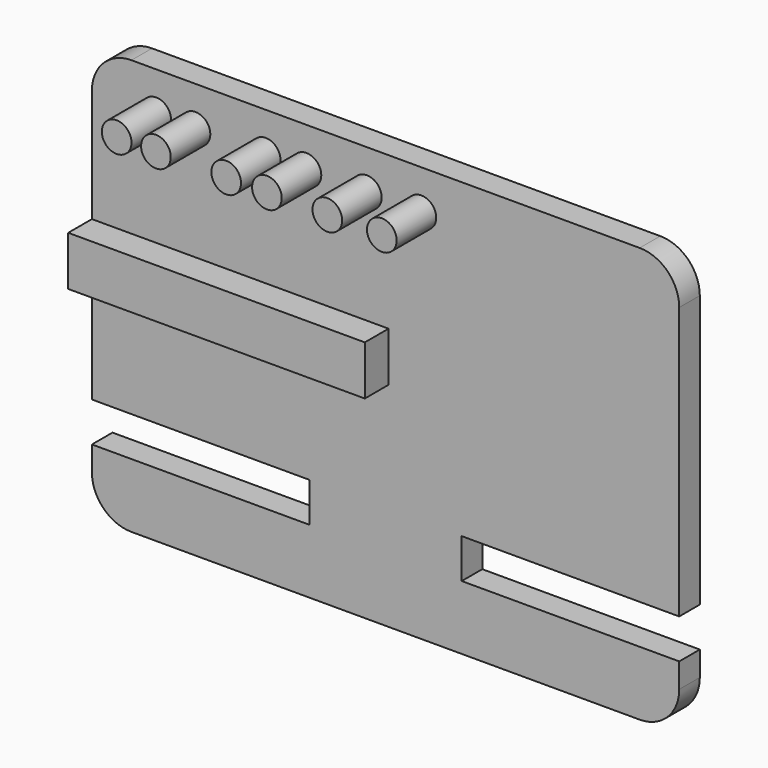
from build123d import *

# Parameters (mm, degrees)
F1_DEPTH = 13
F2_W     = 110
F2_H     = 20
F3_DEPTH = 25
F4_W     = 150
F4_H     = 25
F5_DEPTH = 15
F6_R     = 7.5
F7_DEPTH = 25


with BuildPart() as f1:
    # F0 (on Front) → F1 (new body)
    with BuildSketch(Plane.XZ):
        with BuildLine():
            Line((133.362575, 102.236308), (-123.637425, 102.236308))
            ThreePointArc((-123.637425, 102.236308), (-137.779561, 96.378444), (-143.637425, 82.236308))
            Line((-143.637425, 82.236308), (-143.637425, -61.831403))
            Line((-143.637425, -61.831403), (-143.637425, -81.831403))
            Line((-143.637425, -81.831403), (-143.637425, -87.763692))
            ThreePointArc((-143.637425, -87.763692), (-137.779561, -101.905827), (-123.637425, -107.763692))
            Line((-123.637425, -107.763692), (133.362575, -107.763692))
            ThreePointArc((133.362575, -107.763692), (147.50471, -101.905827), (153.362575, -87.763692))
            Line((153.362575, -87.763692), (153.362575, -81.831403))
            Line((153.362575, -81.831403), (153.362575, -61.831403))
            Line((153.362575, -61.831403), (153.362575, 82.236308))
            ThreePointArc((153.362575, 82.236308), (147.50471, 96.378444), (133.362575, 102.236308))
        make_face()
    extrude(amount=F1_DEPTH)

    # F2 (on face) → F3 (cut)
    with BuildSketch(Plane.XZ.offset(13)):
        with Locations((-88.637425, -65.322807)):
            Rectangle(F2_W, F2_H)
        with Locations((98.362575, -65.322807)):
            Rectangle(F2_W, F2_H)
    extrude(amount=-F3_DEPTH, mode=Mode.SUBTRACT)

    # F4 (on face) → F5 (join)
    with BuildSketch(Plane.XZ.offset(13)):
        with Locations((-68.637425, 12.5)):
            Rectangle(F4_W, F4_H)
    extrude(amount=F5_DEPTH)

    # F6 (on face) → F7 (join)
    with BuildSketch(Plane.XZ.offset(13)):
        with Locations((-111.137425, 82.236308)):
            Circle(F6_R)
        with Locations((-91.274098, 82.236308)):
            Circle(F6_R)
        with Locations((-55.741716, 82.236308)):
            Circle(F6_R)
        with Locations((-35.15286, 82.236308)):
            Circle(F6_R)
        with Locations((-4.601658, 82.236308)):
            Circle(F6_R)
        with Locations((22.960842, 82.236308)):
            Circle(F6_R)
    extrude(amount=F7_DEPTH)


solid = f1.part
